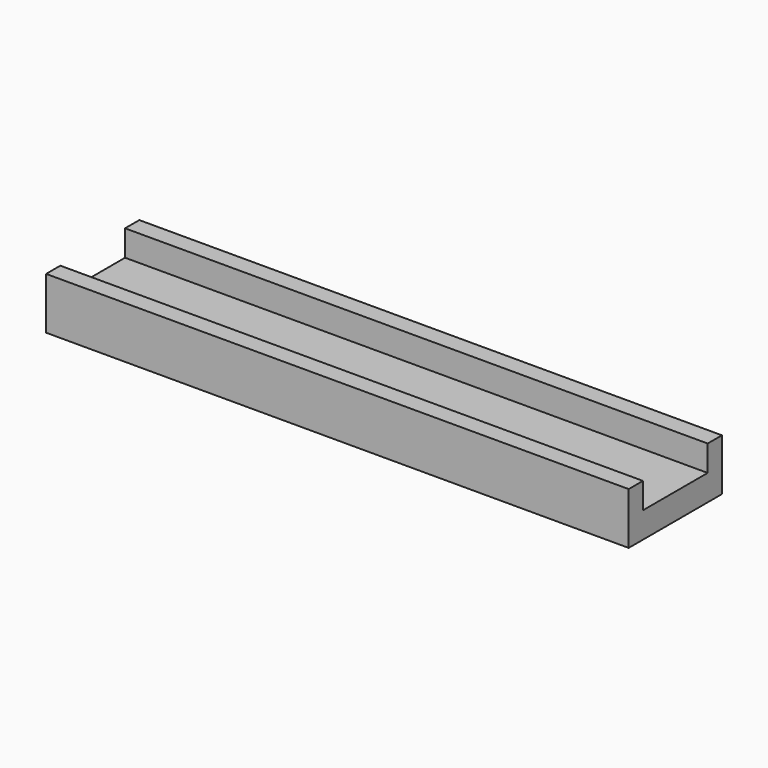
from build123d import *

# Parameters (mm, degrees)
F0_W     = 90
F0_H     = 2.75
F1_DEPTH = 8
F0_H_2   = 12.5
F2_DEPTH = 4


with BuildPart() as f1:
    # F0 (on Top) → F1 (new body)
    with BuildSketch(Plane.XY):
        with Locations((0, 7.625)):
            Rectangle(F0_W, F0_H)
    extrude(amount=F1_DEPTH)



with BuildPart() as f1b:
    # F0 (on Top) → F1, piece 2 (new body)
    with BuildSketch(Plane.XY):
        with Locations((0, -7.625)):
            Rectangle(F0_W, F0_H)
    extrude(amount=F1_DEPTH)


with BuildPart() as f1_1:
    add(f1.part)

    add(f1b.part)  # F2 merges F1b
    # F0 (on Top) → F2 (join)
    with BuildSketch(Plane.XY):
        Rectangle(F0_W, F0_H_2)
    extrude(amount=F2_DEPTH)


solid = f1_1.part
